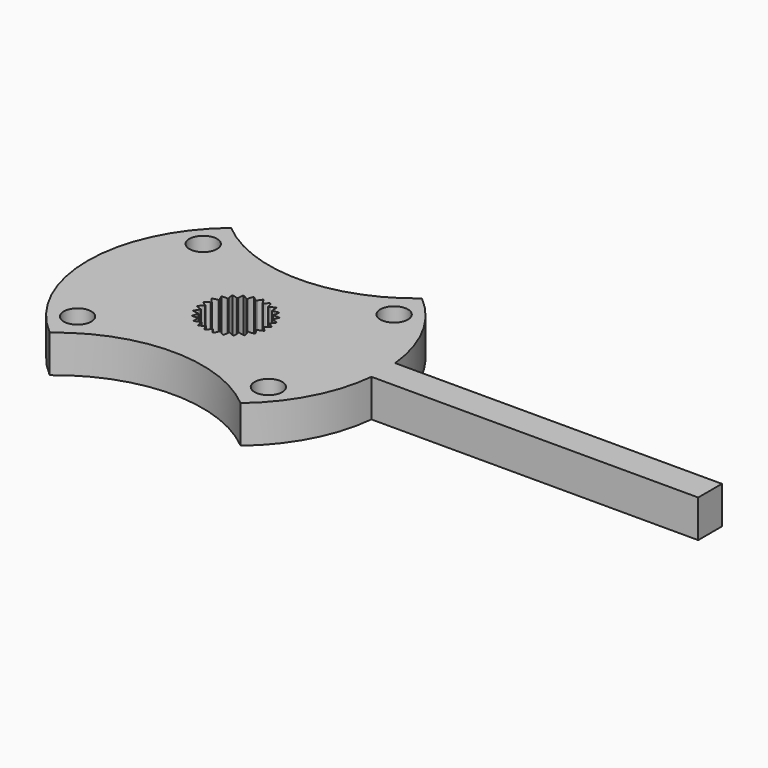
from build123d import *

# Parameters (mm, degrees)
PAD020_DEPTH            = 3.8
POCKET050_DEPTH         = 3.801
SKETCH080_R             = 1.4
POCKET051_DEPTH         = 3.801
SKETCH079_W             = 3
SKETCH079_H             = 34
PAD019_DEPTH            = 3.8
BODY008_ROLL_ANGLE      = -90
BODY008_PLACEMENT_ANGLE = 90


with BuildPart() as part:
    # CopySketch078 → Pad020 (new body)
    with BuildSketch(Plane(origin=(0, 0, 0), x_dir=(1, 0, 0), z_dir=(0, 1, 0))):
        with BuildLine():
            ThreePointArc((11.475, 9.660454), (0, 15), (-11.475, 9.660454))
            ThreePointArc((-11.475, -9.660454), (-7.95, 0), (-11.475, 9.660454))
            ThreePointArc((-11.475, -9.660454), (0, -15), (11.475, -9.660454))
            ThreePointArc((11.475, 9.660454), (7.95, 0), (11.475, -9.660454))
        make_face()
    extrude(amount=PAD020_DEPTH)

    # InvoluteGear002 (on Face6 of Pad020) → Pocket050 (cut, through all)
    with BuildSketch(Plane(origin=(0, 3.8, 0), x_dir=(1, 0, 0), z_dir=(0, 1, 0))):
        with BuildLine():
            add(Edge.make_bspline(
                [(2.935686, -0.341652), (2.980578, -0.323699), (3.028803, -0.301734), (3.079774, -0.27497)],
                knots=[0, 0, 0, 0, 1, 1, 1, 1], degree=3))
            add(Edge.make_bspline(
                [(3.079774, -0.27497), (3.19844, -0.212627), (3.33132, -0.124801), (3.469601, -0.002687)],
                knots=[0, 0, 0, 0, 1, 1, 1, 1], degree=3))
            ThreePointArc((3.469601, -0.002687), (3.469602, 0), (3.469601, 0.002687))
            add(Edge.make_bspline(
                [(3.469601, 0.002687), (3.33132, 0.124801), (3.19844, 0.212627), (3.079774, 0.27497)],
                knots=[0, 0, 0, 0, 1, 1, 1, 1], degree=3))
            add(Edge.make_bspline(
                [(3.079774, 0.27497), (3.028803, 0.301734), (2.980578, 0.323699), (2.93569, 0.341649)],
                knots=[0, 0, 0, 0, 1, 1, 1, 1], degree=3))
            ThreePointArc((2.93569, 0.341649), (2.92763, 0.369844), (2.928422, 0.399157))
            add(Edge.make_bspline(
                [(2.928422, 0.399157), (2.967439, 0.42771), (3.008686, 0.460978), (3.051399, 0.499577)],
                knots=[0, 0, 0, 0, 1, 1, 1, 1], degree=3))
            add(Edge.make_bspline(
                [(3.051399, 0.499577), (3.150833, 0.589473), (3.257697, 0.707585), (3.361265, 0.860253)],
                knots=[0, 0, 0, 0, 1, 1, 1, 1], degree=3))
            ThreePointArc((3.361265, 0.860253), (3.360598, 0.862855), (3.359929, 0.865457))
            add(Edge.make_bspline(
                [(3.359929, 0.865457), (3.195624, 0.949346), (3.045077, 1.001366), (2.914635, 1.03224)],
                knots=[0, 0, 0, 0, 1, 1, 1, 1], degree=3))
            add(Edge.make_bspline(
                [(2.914635, 1.03224), (2.858609, 1.045487), (2.806437, 1.054769), (2.758495, 1.060992)],
                knots=[0, 0, 0, 0, 1, 1, 1, 1], degree=3))
            ThreePointArc((2.758495, 1.060992), (2.743677, 1.086297), (2.737154, 1.114886))
            add(Edge.make_bspline(
                [(2.737154, 1.114886), (2.767844, 1.152245), (2.799522, 1.194725), (2.831294, 1.242734)],
                knots=[0, 0, 0, 0, 1, 1, 1, 1], degree=3))
            add(Edge.make_bspline(
                [(2.831294, 1.242734), (2.905248, 1.354534), (2.979382, 1.495511), (3.041729, 1.669139)],
                knots=[0, 0, 0, 0, 1, 1, 1, 1], degree=3))
            ThreePointArc((3.041729, 1.669139), (3.040436, 1.671494), (3.03914, 1.673847))
            add(Edge.make_bspline(
                [(3.03914, 1.673847), (2.859135, 1.71424), (2.700381, 1.727187), (2.566358, 1.724651)],
                knots=[0, 0, 0, 0, 1, 1, 1, 1], degree=3))
            add(Edge.make_bspline(
                [(2.566358, 1.724651), (2.508799, 1.723549), (2.455957, 1.719564), (2.407974, 1.713669)],
                knots=[0, 0, 0, 0, 1, 1, 1, 1], degree=3))
            ThreePointArc((2.407974, 1.713669), (2.387328, 1.734493), (2.3739, 1.760562))
            add(Edge.make_bspline(
                [(2.3739, 1.760562), (2.394335, 1.80438), (2.414453, 1.853403), (2.433289, 1.907806)],
                knots=[0, 0, 0, 0, 1, 1, 1, 1], degree=3))
            add(Edge.make_bspline(
                [(2.433289, 1.907806), (2.477116, 2.034485), (2.51386, 2.189469), (2.53107, 2.373147)],
                knots=[0, 0, 0, 0, 1, 1, 1, 1], degree=3))
            ThreePointArc((2.53107, 2.373147), (2.529231, 2.375106), (2.527391, 2.377064))
            add(Edge.make_bspline(
                [(2.527391, 2.377064), (2.342995, 2.371422), (2.186009, 2.344481), (2.056828, 2.308695)],
                knots=[0, 0, 0, 0, 1, 1, 1, 1], degree=3))
            add(Edge.make_bspline(
                [(2.056828, 2.308695), (2.001351, 2.293313), (1.951161, 2.276313), (1.906151, 2.25867)],
                knots=[0, 0, 0, 0, 1, 1, 1, 1], degree=3))
            ThreePointArc((1.906151, 2.25867), (1.880975, 2.273705), (1.861486, 2.295616))
            add(Edge.make_bspline(
                [(1.861486, 2.295616), (1.870382, 2.343139), (1.877676, 2.395626), (1.88239, 2.453003)],
                knots=[0, 0, 0, 0, 1, 1, 1, 1], degree=3))
            add(Edge.make_bspline(
                [(1.88239, 2.453003), (1.893337, 2.586601), (1.890384, 2.745855), (1.861374, 2.928042)],
                knots=[0, 0, 0, 0, 1, 1, 1, 1], degree=3))
            ThreePointArc((1.861374, 2.928042), (1.859106, 2.929482), (1.856837, 2.930921))
            add(Edge.make_bspline(
                [(1.856837, 2.930921), (1.679637, 2.879599), (1.534283, 2.814463), (1.41806, 2.747675)],
                knots=[0, 0, 0, 0, 1, 1, 1, 1], degree=3))
            add(Edge.make_bspline(
                [(1.41806, 2.747675), (1.368151, 2.71898), (1.323765, 2.690032), (1.284557, 2.66175)],
                knots=[0, 0, 0, 0, 1, 1, 1, 1], degree=3))
            ThreePointArc((1.284557, 2.66175), (1.256433, 2.670052), (1.232107, 2.686427))
            add(Edge.make_bspline(
                [(1.232107, 2.686427), (1.228906, 2.73467), (1.222918, 2.787322), (1.213215, 2.844069)],
                knots=[0, 0, 0, 0, 1, 1, 1, 1], degree=3))
            add(Edge.make_bspline(
                [(1.213215, 2.844069), (1.190592, 2.976192), (1.148128, 3.129708), (1.074721, 3.298957)],
                knots=[0, 0, 0, 0, 1, 1, 1, 1], degree=3))
            ThreePointArc((1.074721, 3.298957), (1.072166, 3.299788), (1.069611, 3.300617))
            add(Edge.make_bspline(
                [(1.069611, 3.300617), (0.910741, 3.20684), (0.786152, 3.107603), (0.69019, 3.014009)],
                knots=[0, 0, 0, 0, 1, 1, 1, 1], degree=3))
            add(Edge.make_bspline(
                [(0.69019, 3.014009), (0.648985, 2.973804), (0.613193, 2.934727), (0.58225, 2.897583)],
                knots=[0, 0, 0, 0, 1, 1, 1, 1], degree=3))
            ThreePointArc((0.58225, 2.897583), (0.552945, 2.89863), (0.525311, 2.908441))
            add(Edge.make_bspline(
                [(0.525311, 2.908441), (0.510213, 2.954372), (0.491319, 3.00388), (0.467808, 3.056431)],
                knots=[0, 0, 0, 0, 1, 1, 1, 1], degree=3))
            add(Edge.make_bspline(
                [(0.467808, 3.056431), (0.413039, 3.178778), (0.33373, 3.31691), (0.220539, 3.462586)],
                knots=[0, 0, 0, 0, 1, 1, 1, 1], degree=3))
            ThreePointArc((0.220539, 3.462586), (0.217858, 3.462756), (0.215177, 3.462923))
            add(Edge.make_bspline(
                [(0.215177, 3.462923), (0.08462, 3.332583), (-0.011376, 3.20548), (-0.081047, 3.090962)],
                knots=[0, 0, 0, 0, 1, 1, 1, 1], degree=3))
            add(Edge.make_bspline(
                [(-0.081047, 3.090962), (-0.110959, 3.041772), (-0.135908, 2.995022), (-0.156642, 2.95135)],
                knots=[0, 0, 0, 0, 1, 1, 1, 1], degree=3))
            ThreePointArc((-0.156642, 2.95135), (-0.185287, 2.945076), (-0.214492, 2.947706))
            add(Edge.make_bspline(
                [(-0.214492, 2.947706), (-0.240539, 2.988439), (-0.271151, 3.031694), (-0.306992, 3.076747)],
                knots=[0, 0, 0, 0, 1, 1, 1, 1], degree=3))
            add(Edge.make_bspline(
                [(-0.306992, 3.076747), (-0.390467, 3.181629), (-0.501636, 3.295699), (-0.647499, 3.408648)],
                knots=[0, 0, 0, 0, 1, 1, 1, 1], degree=3))
            ThreePointArc((-0.647499, 3.408648), (-0.650139, 3.408146), (-0.652777, 3.407642))
            add(Edge.make_bspline(
                [(-0.652777, 3.407642), (-0.746818, 3.248928), (-0.808189, 3.101945), (-0.847192, 2.973698)],
                knots=[0, 0, 0, 0, 1, 1, 1, 1], degree=3))
            add(Edge.make_bspline(
                [(-0.847192, 2.973698), (-0.863931, 2.918615), (-0.87647, 2.867129), (-0.885691, 2.819672)],
                knots=[0, 0, 0, 0, 1, 1, 1, 1], degree=3))
            ThreePointArc((-0.885691, 2.819672), (-0.911876, 2.806472), (-0.940819, 2.801757))
            add(Edge.make_bspline(
                [(-0.940819, 2.801757), (-0.976177, 2.834732), (-1.016584, 2.869015), (-1.062503, 2.903739)],
                knots=[0, 0, 0, 0, 1, 1, 1, 1], degree=3))
            add(Edge.make_bspline(
                [(-1.062503, 2.903739), (-1.169439, 2.984567), (-1.305483, 3.067406), (-1.474853, 3.140533)],
                knots=[0, 0, 0, 0, 1, 1, 1, 1], degree=3))
            ThreePointArc((-1.474853, 3.140533), (-1.477285, 3.13939), (-1.479715, 3.138245))
            add(Edge.make_bspline(
                [(-1.479715, 3.138245), (-1.531331, 2.961131), (-1.55422, 2.803503), (-1.560104, 2.669586)],
                knots=[0, 0, 0, 0, 1, 1, 1, 1], degree=3))
            add(Edge.make_bspline(
                [(-1.560104, 2.669586), (-1.562619, 2.612071), (-1.56196, 2.559083), (-1.55909, 2.510825)],
                knots=[0, 0, 0, 0, 1, 1, 1, 1], degree=3))
            ThreePointArc((-1.55909, 2.510825), (-1.581169, 2.491527), (-1.60803, 2.479762))
            add(Edge.make_bspline(
                [(-1.60803, 2.479762), (-1.650478, 2.502909), (-1.698141, 2.526065), (-1.751254, 2.548279)],
                knots=[0, 0, 0, 0, 1, 1, 1, 1], degree=3))
            add(Edge.make_bspline(
                [(-1.751254, 2.548279), (-1.874931, 2.599974), (-2.027302, 2.646378), (-2.209537, 2.675086)],
                knots=[0, 0, 0, 0, 1, 1, 1, 1], degree=3))
            ThreePointArc((-2.209537, 2.675086), (-2.211608, 2.673374), (-2.213677, 2.671661))
            add(Edge.make_bspline(
                [(-2.213677, 2.671661), (-2.219625, 2.487275), (-2.202594, 2.328907), (-2.17499, 2.197734)],
                knots=[0, 0, 0, 0, 1, 1, 1, 1], degree=3))
            add(Edge.make_bspline(
                [(-2.17499, 2.197734), (-2.163122, 2.1414), (-2.149307, 2.090241), (-2.134525, 2.044213)],
                knots=[0, 0, 0, 0, 1, 1, 1, 1], degree=3))
            ThreePointArc((-2.134525, 2.044213), (-2.151111, 2.02003), (-2.174202, 2.001955))
            add(Edge.make_bspline(
                [(-2.174202, 2.001955), (-2.221073, 2.013818), (-2.272998, 2.024394), (-2.329966, 2.032701)],
                knots=[0, 0, 0, 0, 1, 1, 1, 1], degree=3))
            add(Edge.make_bspline(
                [(-2.329966, 2.032701), (-2.462613, 2.052015), (-2.621738, 2.059067), (-2.805387, 2.041554)],
                knots=[0, 0, 0, 0, 1, 1, 1, 1], degree=3))
            ThreePointArc((-2.805387, 2.041554), (-2.806967, 2.039381), (-2.808545, 2.037207))
            add(Edge.make_bspline(
                [(-2.808545, 2.037207), (-2.768451, 1.857134), (-2.712571, 1.707977), (-2.653213, 1.58779)],
                knots=[0, 0, 0, 0, 1, 1, 1, 1], degree=3))
            add(Edge.make_bspline(
                [(-2.653213, 1.58779), (-2.627708, 1.536178), (-2.601604, 1.490062), (-2.57584, 1.449155)],
                knots=[0, 0, 0, 0, 1, 1, 1, 1], degree=3))
            ThreePointArc((-2.57584, 1.449155), (-2.585891, 1.421608), (-2.603762, 1.398358))
            add(Edge.make_bspline(
                [(-2.603762, 1.398358), (-2.65211, 1.398192), (-2.705034, 1.395522), (-2.762278, 1.389401)],
                knots=[0, 0, 0, 0, 1, 1, 1, 1], degree=3))
            add(Edge.make_bspline(
                [(-2.762278, 1.389401), (-2.895561, 1.37512), (-3.051441, 1.342378), (-3.224965, 1.279743)],
                knots=[0, 0, 0, 0, 1, 1, 1, 1], degree=3))
            ThreePointArc((-3.224965, 1.279743), (-3.225955, 1.277246), (-3.226943, 1.274748))
            add(Edge.make_bspline(
                [(-3.226943, 1.274748), (-3.143326, 1.110303), (-3.052108, 0.979729), (-2.964725, 0.87808)],
                knots=[0, 0, 0, 0, 1, 1, 1, 1], degree=3))
            add(Edge.make_bspline(
                [(-2.964725, 0.87808), (-2.927185, 0.834431), (-2.890433, 0.796256), (-2.855305, 0.763042)],
                knots=[0, 0, 0, 0, 1, 1, 1, 1], degree=3))
            ThreePointArc((-2.855305, 0.763042), (-2.85819, 0.73386), (-2.869717, 0.706897))
            add(Edge.make_bspline(
                [(-2.869717, 0.706897), (-2.916505, 0.694712), (-2.967102, 0.678965), (-3.021026, 0.6588)],
                knots=[0, 0, 0, 0, 1, 1, 1, 1], degree=3))
            add(Edge.make_bspline(
                [(-3.021026, 0.6588), (-3.14657, 0.611821), (-3.28941, 0.541342), (-3.441906, 0.437522)],
                knots=[0, 0, 0, 0, 1, 1, 1, 1], degree=3))
            ThreePointArc((-3.441906, 0.437522), (-3.442243, 0.434856), (-3.442579, 0.432191))
            add(Edge.make_bspline(
                [(-3.442579, 0.432191), (-3.320693, 0.293708), (-3.199869, 0.189921), (-3.089952, 0.113196)],
                knots=[0, 0, 0, 0, 1, 1, 1, 1], degree=3))
            add(Edge.make_bspline(
                [(-3.089952, 0.113196), (-3.042737, 0.080255), (-2.997646, 0.052419), (-2.955362, 0.028984)],
                knots=[0, 0, 0, 0, 1, 1, 1, 1], degree=3))
            ThreePointArc((-2.955362, 0.028984), (-2.950899, 2e-06), (-2.955358, -0.028981))
            add(Edge.make_bspline(
                [(-2.955358, -0.028981), (-2.997646, -0.052419), (-3.042737, -0.080255), (-3.089952, -0.113196)],
                knots=[0, 0, 0, 0, 1, 1, 1, 1], degree=3))
            add(Edge.make_bspline(
                [(-3.089952, -0.113196), (-3.199869, -0.189921), (-3.320693, -0.293708), (-3.442579, -0.432191)],
                knots=[0, 0, 0, 0, 1, 1, 1, 1], degree=3))
            ThreePointArc((-3.442579, -0.432191), (-3.442243, -0.434856), (-3.441906, -0.437522))
            add(Edge.make_bspline(
                [(-3.441906, -0.437522), (-3.28941, -0.541342), (-3.14657, -0.611821), (-3.021026, -0.6588)],
                knots=[0, 0, 0, 0, 1, 1, 1, 1], degree=3))
            add(Edge.make_bspline(
                [(-3.021026, -0.6588), (-2.967102, -0.678965), (-2.916505, -0.694712), (-2.869721, -0.706895)],
                knots=[0, 0, 0, 0, 1, 1, 1, 1], degree=3))
            ThreePointArc((-2.869721, -0.706895), (-2.858191, -0.733857), (-2.855303, -0.763038))
            add(Edge.make_bspline(
                [(-2.855303, -0.763038), (-2.890433, -0.796256), (-2.927185, -0.834431), (-2.964725, -0.87808)],
                knots=[0, 0, 0, 0, 1, 1, 1, 1], degree=3))
            add(Edge.make_bspline(
                [(-2.964725, -0.87808), (-3.052108, -0.979729), (-3.143326, -1.110303), (-3.226943, -1.274748)],
                knots=[0, 0, 0, 0, 1, 1, 1, 1], degree=3))
            ThreePointArc((-3.226943, -1.274748), (-3.225955, -1.277246), (-3.224965, -1.279743))
            add(Edge.make_bspline(
                [(-3.224965, -1.279743), (-3.051441, -1.342378), (-2.895561, -1.37512), (-2.762278, -1.389401)],
                knots=[0, 0, 0, 0, 1, 1, 1, 1], degree=3))
            add(Edge.make_bspline(
                [(-2.762278, -1.389401), (-2.705034, -1.395522), (-2.65211, -1.398192), (-2.603766, -1.398357)],
                knots=[0, 0, 0, 0, 1, 1, 1, 1], degree=3))
            ThreePointArc((-2.603766, -1.398357), (-2.585893, -1.421605), (-2.575838, -1.449151))
            add(Edge.make_bspline(
                [(-2.575838, -1.449151), (-2.601604, -1.490062), (-2.627708, -1.536178), (-2.653213, -1.58779)],
                knots=[0, 0, 0, 0, 1, 1, 1, 1], degree=3))
            add(Edge.make_bspline(
                [(-2.653213, -1.58779), (-2.712571, -1.707977), (-2.768451, -1.857134), (-2.808545, -2.037207)],
                knots=[0, 0, 0, 0, 1, 1, 1, 1], degree=3))
            ThreePointArc((-2.808545, -2.037207), (-2.806967, -2.039381), (-2.805387, -2.041554))
            add(Edge.make_bspline(
                [(-2.805387, -2.041554), (-2.621738, -2.059067), (-2.462613, -2.052015), (-2.329966, -2.032701)],
                knots=[0, 0, 0, 0, 1, 1, 1, 1], degree=3))
            add(Edge.make_bspline(
                [(-2.329966, -2.032701), (-2.272998, -2.024394), (-2.221073, -2.013818), (-2.174207, -2.001956)],
                knots=[0, 0, 0, 0, 1, 1, 1, 1], degree=3))
            ThreePointArc((-2.174207, -2.001956), (-2.151114, -2.020028), (-2.134524, -2.044208))
            add(Edge.make_bspline(
                [(-2.134524, -2.044208), (-2.149307, -2.090241), (-2.163122, -2.1414), (-2.17499, -2.197734)],
                knots=[0, 0, 0, 0, 1, 1, 1, 1], degree=3))
            add(Edge.make_bspline(
                [(-2.17499, -2.197734), (-2.202594, -2.328907), (-2.219625, -2.487275), (-2.213677, -2.671661)],
                knots=[0, 0, 0, 0, 1, 1, 1, 1], degree=3))
            ThreePointArc((-2.213677, -2.671661), (-2.211608, -2.673374), (-2.209537, -2.675086))
            add(Edge.make_bspline(
                [(-2.209537, -2.675086), (-2.027302, -2.646378), (-1.874931, -2.599974), (-1.751254, -2.548279)],
                knots=[0, 0, 0, 0, 1, 1, 1, 1], degree=3))
            add(Edge.make_bspline(
                [(-1.751254, -2.548279), (-1.698141, -2.526065), (-1.650478, -2.502909), (-1.608034, -2.479764)],
                knots=[0, 0, 0, 0, 1, 1, 1, 1], degree=3))
            ThreePointArc((-1.608034, -2.479764), (-1.581172, -2.491525), (-1.55909, -2.51082))
            add(Edge.make_bspline(
                [(-1.55909, -2.51082), (-1.56196, -2.559083), (-1.562619, -2.612071), (-1.560104, -2.669586)],
                knots=[0, 0, 0, 0, 1, 1, 1, 1], degree=3))
            add(Edge.make_bspline(
                [(-1.560104, -2.669586), (-1.55422, -2.803503), (-1.531331, -2.961131), (-1.479715, -3.138245)],
                knots=[0, 0, 0, 0, 1, 1, 1, 1], degree=3))
            ThreePointArc((-1.479715, -3.138245), (-1.477285, -3.13939), (-1.474853, -3.140533))
            add(Edge.make_bspline(
                [(-1.474853, -3.140533), (-1.305483, -3.067406), (-1.169439, -2.984567), (-1.062503, -2.903739)],
                knots=[0, 0, 0, 0, 1, 1, 1, 1], degree=3))
            add(Edge.make_bspline(
                [(-1.062503, -2.903739), (-1.016584, -2.869015), (-0.976177, -2.834732), (-0.940822, -2.801759)],
                knots=[0, 0, 0, 0, 1, 1, 1, 1], degree=3))
            ThreePointArc((-0.940822, -2.801759), (-0.911879, -2.806471), (-0.885693, -2.819668))
            add(Edge.make_bspline(
                [(-0.885693, -2.819668), (-0.87647, -2.867129), (-0.863931, -2.918615), (-0.847192, -2.973698)],
                knots=[0, 0, 0, 0, 1, 1, 1, 1], degree=3))
            add(Edge.make_bspline(
                [(-0.847192, -2.973698), (-0.808189, -3.101945), (-0.746818, -3.248928), (-0.652777, -3.407642)],
                knots=[0, 0, 0, 0, 1, 1, 1, 1], degree=3))
            ThreePointArc((-0.652777, -3.407642), (-0.650139, -3.408146), (-0.647499, -3.408648))
            add(Edge.make_bspline(
                [(-0.647499, -3.408648), (-0.501636, -3.295699), (-0.390467, -3.181629), (-0.306992, -3.076747)],
                knots=[0, 0, 0, 0, 1, 1, 1, 1], degree=3))
            add(Edge.make_bspline(
                [(-0.306992, -3.076747), (-0.271151, -3.031694), (-0.240539, -2.988439), (-0.214496, -2.94771)],
                knots=[0, 0, 0, 0, 1, 1, 1, 1], degree=3))
            ThreePointArc((-0.214496, -2.94771), (-0.18529, -2.945075), (-0.156645, -2.951346))
            add(Edge.make_bspline(
                [(-0.156645, -2.951346), (-0.135908, -2.995022), (-0.110959, -3.041772), (-0.081047, -3.090962)],
                knots=[0, 0, 0, 0, 1, 1, 1, 1], degree=3))
            add(Edge.make_bspline(
                [(-0.081047, -3.090962), (-0.011376, -3.20548), (0.08462, -3.332583), (0.215177, -3.462923)],
                knots=[0, 0, 0, 0, 1, 1, 1, 1], degree=3))
            ThreePointArc((0.215177, -3.462923), (0.217858, -3.462756), (0.220539, -3.462586))
            add(Edge.make_bspline(
                [(0.220539, -3.462586), (0.33373, -3.31691), (0.413039, -3.178778), (0.467808, -3.056431)],
                knots=[0, 0, 0, 0, 1, 1, 1, 1], degree=3))
            add(Edge.make_bspline(
                [(0.467808, -3.056431), (0.491319, -3.00388), (0.510213, -2.954372), (0.525309, -2.908445)],
                knots=[0, 0, 0, 0, 1, 1, 1, 1], degree=3))
            ThreePointArc((0.525309, -2.908445), (0.552942, -2.89863), (0.582247, -2.89758))
            add(Edge.make_bspline(
                [(0.582247, -2.89758), (0.613193, -2.934727), (0.648985, -2.973804), (0.69019, -3.014009)],
                knots=[0, 0, 0, 0, 1, 1, 1, 1], degree=3))
            add(Edge.make_bspline(
                [(0.69019, -3.014009), (0.786152, -3.107603), (0.910741, -3.20684), (1.069611, -3.300617)],
                knots=[0, 0, 0, 0, 1, 1, 1, 1], degree=3))
            ThreePointArc((1.069611, -3.300617), (1.072166, -3.299788), (1.074721, -3.298957))
            add(Edge.make_bspline(
                [(1.074721, -3.298957), (1.148128, -3.129708), (1.190592, -2.976192), (1.213215, -2.844069)],
                knots=[0, 0, 0, 0, 1, 1, 1, 1], degree=3))
            add(Edge.make_bspline(
                [(1.213215, -2.844069), (1.222918, -2.787322), (1.228906, -2.73467), (1.232106, -2.686432)],
                knots=[0, 0, 0, 0, 1, 1, 1, 1], degree=3))
            ThreePointArc((1.232106, -2.686432), (1.25643, -2.670054), (1.284553, -2.661748))
            add(Edge.make_bspline(
                [(1.284553, -2.661748), (1.323765, -2.690032), (1.368151, -2.71898), (1.41806, -2.747675)],
                knots=[0, 0, 0, 0, 1, 1, 1, 1], degree=3))
            add(Edge.make_bspline(
                [(1.41806, -2.747675), (1.534283, -2.814463), (1.679637, -2.879599), (1.856837, -2.930921)],
                knots=[0, 0, 0, 0, 1, 1, 1, 1], degree=3))
            ThreePointArc((1.856837, -2.930921), (1.859106, -2.929482), (1.861374, -2.928042))
            add(Edge.make_bspline(
                [(1.861374, -2.928042), (1.890384, -2.745855), (1.893337, -2.586601), (1.88239, -2.453003)],
                knots=[0, 0, 0, 0, 1, 1, 1, 1], degree=3))
            add(Edge.make_bspline(
                [(1.88239, -2.453003), (1.877676, -2.395626), (1.870382, -2.343139), (1.861486, -2.29562)],
                knots=[0, 0, 0, 0, 1, 1, 1, 1], degree=3))
            ThreePointArc((1.861486, -2.29562), (1.880972, -2.273708), (1.906146, -2.258669))
            add(Edge.make_bspline(
                [(1.906146, -2.258669), (1.951161, -2.276313), (2.001351, -2.293313), (2.056828, -2.308695)],
                knots=[0, 0, 0, 0, 1, 1, 1, 1], degree=3))
            add(Edge.make_bspline(
                [(2.056828, -2.308695), (2.186009, -2.344481), (2.342995, -2.371422), (2.527391, -2.377064)],
                knots=[0, 0, 0, 0, 1, 1, 1, 1], degree=3))
            ThreePointArc((2.527391, -2.377064), (2.529231, -2.375106), (2.53107, -2.373147))
            add(Edge.make_bspline(
                [(2.53107, -2.373147), (2.51386, -2.189469), (2.477116, -2.034485), (2.433289, -1.907806)],
                knots=[0, 0, 0, 0, 1, 1, 1, 1], degree=3))
            add(Edge.make_bspline(
                [(2.433289, -1.907806), (2.414453, -1.853403), (2.394335, -1.80438), (2.373901, -1.760567)],
                knots=[0, 0, 0, 0, 1, 1, 1, 1], degree=3))
            ThreePointArc((2.373901, -1.760567), (2.387326, -1.734496), (2.407969, -1.71367))
            add(Edge.make_bspline(
                [(2.407969, -1.71367), (2.455957, -1.719564), (2.508799, -1.723549), (2.566358, -1.724651)],
                knots=[0, 0, 0, 0, 1, 1, 1, 1], degree=3))
            add(Edge.make_bspline(
                [(2.566358, -1.724651), (2.700381, -1.727187), (2.859135, -1.71424), (3.03914, -1.673847)],
                knots=[0, 0, 0, 0, 1, 1, 1, 1], degree=3))
            ThreePointArc((3.03914, -1.673847), (3.040436, -1.671494), (3.041729, -1.669139))
            add(Edge.make_bspline(
                [(3.041729, -1.669139), (2.979382, -1.495511), (2.905248, -1.354534), (2.831294, -1.242734)],
                knots=[0, 0, 0, 0, 1, 1, 1, 1], degree=3))
            add(Edge.make_bspline(
                [(2.831294, -1.242734), (2.799522, -1.194725), (2.767844, -1.152245), (2.737156, -1.11489)],
                knots=[0, 0, 0, 0, 1, 1, 1, 1], degree=3))
            ThreePointArc((2.737156, -1.11489), (2.743675, -1.0863), (2.758491, -1.060994))
            add(Edge.make_bspline(
                [(2.758491, -1.060994), (2.806437, -1.054769), (2.858609, -1.045487), (2.914635, -1.03224)],
                knots=[0, 0, 0, 0, 1, 1, 1, 1], degree=3))
            add(Edge.make_bspline(
                [(2.914635, -1.03224), (3.045077, -1.001366), (3.195624, -0.949346), (3.359929, -0.865457)],
                knots=[0, 0, 0, 0, 1, 1, 1, 1], degree=3))
            ThreePointArc((3.359929, -0.865457), (3.360598, -0.862855), (3.361265, -0.860253))
            add(Edge.make_bspline(
                [(3.361265, -0.860253), (3.257697, -0.707585), (3.150833, -0.589473), (3.051399, -0.499577)],
                knots=[0, 0, 0, 0, 1, 1, 1, 1], degree=3))
            add(Edge.make_bspline(
                [(3.051399, -0.499577), (3.008686, -0.460978), (2.967439, -0.42771), (2.928425, -0.399161)],
                knots=[0, 0, 0, 0, 1, 1, 1, 1], degree=3))
            ThreePointArc((2.928425, -0.399161), (2.92763, -0.369847), (2.935686, -0.341652))
        make_face()
    extrude(amount=-POCKET050_DEPTH, mode=Mode.SUBTRACT)

    # Sketch080 (on Face5 of Pocket050) → Pocket051 (cut, through all)
    with BuildSketch(Plane(origin=(0, 3.8, 0), x_dir=(1, 0, 0), z_dir=(0, 1, 0))):
        with Locations((-7.95, 9.660454)):
            Circle(SKETCH080_R)
        with Locations((7.95, 9.660454)):
            Circle(SKETCH080_R)
        with Locations((-7.95, -9.660454)):
            Circle(SKETCH080_R)
        with Locations((7.95, -9.660454)):
            Circle(SKETCH080_R)
    extrude(amount=-POCKET051_DEPTH, mode=Mode.SUBTRACT)

    # Sketch079 (on Face5 of Pocket051) → Pad019 (join)
    with BuildSketch(Plane(origin=(0, 3.8, 0), x_dir=(1, 0, 0), z_dir=(0, 1, 0))):
        with Locations((0, 31)):
            Rectangle(SKETCH079_W, SKETCH079_H)
    extrude(amount=-PAD019_DEPTH)


with BuildPart() as part_1:
    # Body008 roll: moved
    add(part.part.rotate(Axis((0, 0, 0), (1, 0, 0)), BODY008_ROLL_ANGLE))


with BuildPart() as part_2:
    # Body008 placement: moved
    add(part_1.part.moved(Location((75.1, 74.9, 43.3))).rotate(Axis((75.1, 74.9, 43.3), (0, 0, 1)), BODY008_PLACEMENT_ANGLE))


solid = part_2.part
